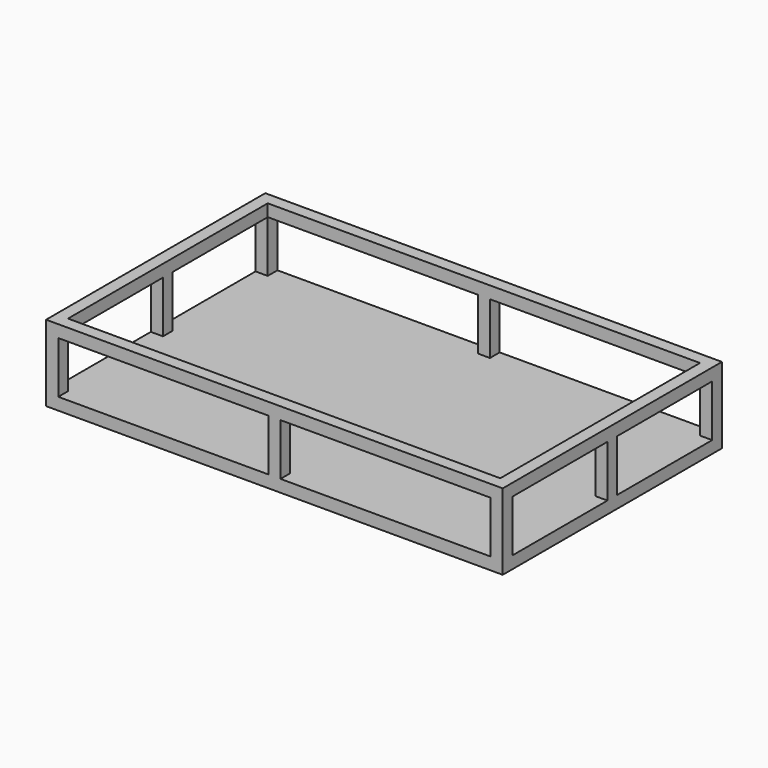
from build123d import *

# Parameters (mm, degrees)
F0_W     = 75
F0_H     = 25
F0_W_2   = 69
F0_H_2   = 17
F1_DEPTH = 45
F2_W     = 39
F2_H     = 17
F3_DEPTH = 100
F5_START = 4
F4_W     = 142
F4_H     = 82
F5_DEPTH = 26


with BuildPart() as f1:
    # F0 (on Front) → F1 (new body, symmetric)
    with BuildSketch(Plane.XZ):
        with Locations((-37.5, 12.5)):
            Rectangle(F0_W, F0_H)
        with Locations((-36.5, 12.5)):
            Rectangle(F0_W_2, F0_H_2, mode=Mode.SUBTRACT)
        with Locations((37.5, 12.5)):
            Rectangle(F0_W, F0_H)
        with Locations((36.5, 12.5)):
            Rectangle(F0_W_2, F0_H_2, mode=Mode.SUBTRACT)
    extrude(amount=F1_DEPTH, both=True)

    # F2 (on Right) → F3 (cut, symmetric)
    with BuildSketch(Plane.YZ):
        with Locations((21.5, 12.5)):
            Rectangle(F2_W, F2_H)
        with Locations((-21.5, 12.5)):
            Rectangle(F2_W, F2_H)
    extrude(amount=F3_DEPTH, both=True, mode=Mode.SUBTRACT)

    # F4 (on Top) → F5 (cut)
    with BuildSketch(Plane.XY.offset(F5_START)):
        Rectangle(F4_W, F4_H)
    extrude(amount=F5_DEPTH, mode=Mode.SUBTRACT)


solid = f1.part
